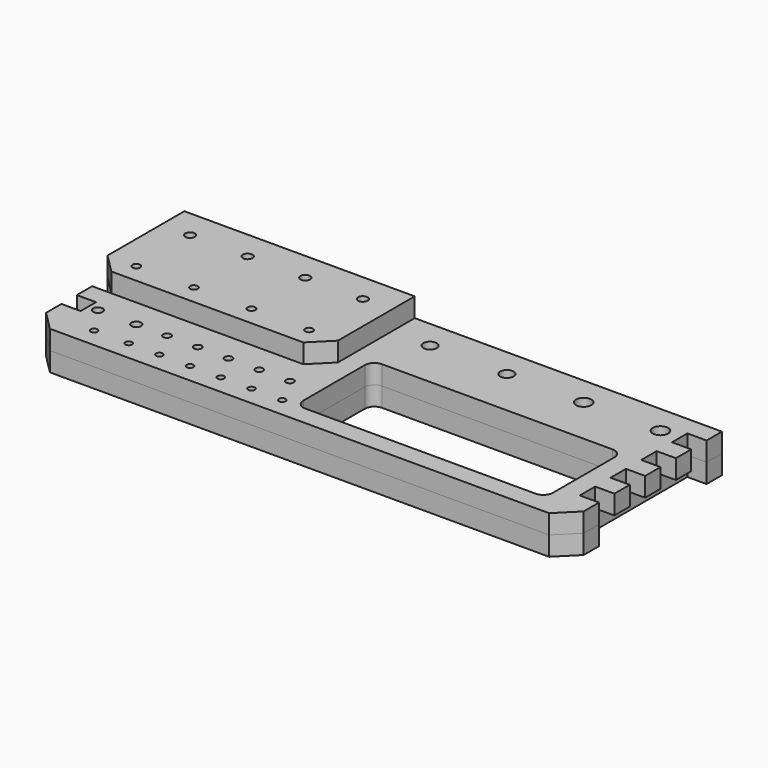
from build123d import *

# Parameters (mm, degrees)
F0_W     = 130
F0_H     = 50
F1_DEPTH = 10
F2_R     = 5
F4_DEPTH = 10
F6_DEPTH = 10
F7_R     = 3.5
F7_R_2   = 4
F7_R_3   = 2.5
F7_R_4   = 2
F7_R_5   = 1.75
F8_DEPTH = 25


with BuildPart() as f1:
    # F0 (on Top) → F1 (new body)
    with BuildSketch(Plane.XY):
        Polygon((140, 40), (140, 50), (-140, 50), (-140, 40), (-130, 40), (-130, 30), (-140, 30), (-140, 20), (-130, 20), (-130, 10), (-140, 10), (-140, 0), (-130, 0), (-130, -10), (-140, -10), (-140, -20), (-130, -20), (-130, -30), (-140, -30), (-140, -40), (-130, -50), (130, -50), (140, -40), (140, -30), (130, -30), (130, -20), (140, -20), (140, -10), (130, -10), (130, 0), (140, 0), (140, 10), (130, 10), (130, 20), (140, 20), (140, 30), (130, 30), (130, 40), align=None)
        with Locations((55, -15)):
            Rectangle(F0_W, F0_H, mode=Mode.SUBTRACT)
    extrude(amount=F1_DEPTH)

    # F2
    f2_edges = [f1.edges().sort_by_distance(p)[0] for p in [
        (-10, 10, 5),
        (120, 10, 5),
        (-10, -40, 5),
        (120, -40, 5),
    ]]
    fillet(f2_edges, radius=F2_R)


with BuildPart() as f4:
    # F3 (on face) → F4 (new body)
    with BuildSketch(Plane.XY.offset(10)):
        Polygon((-20, 50), (-140, 50), (-140, 0), (-130, -10), (-30, -10), (-20, 0), align=None)
    extrude(amount=F4_DEPTH)


with BuildPart() as f6:
    # F5 (on face) → F6 (new body)
    with BuildSketch(Plane(origin=(0, 0, 0), x_dir=(1, 0, 0), z_dir=(0, 0, -1))):
        Polygon((-130, 30), (-130, -40), (-140, -40), (-140, -50), (-130, -50), (130, -50), (140, -50), (140, -40), (130, -40), (130, 30), (140, 30), (140, 40), (130, 50), (-130, 50), (-140, 40), (-140, 30), align=None)
        with BuildLine():
            Line((-5, 40), (115, 40))
            ThreePointArc((115, 40), (118.535534, 38.535534), (120, 35))
            Line((120, 35), (120, -5))
            ThreePointArc((120, -5), (118.535534, -8.535534), (115, -10))
            Line((115, -10), (-5, -10))
            ThreePointArc((-5, -10), (-8.535534, -8.535534), (-10, -5))
            Line((-10, -5), (-10, 35))
            ThreePointArc((-10, 35), (-8.535534, 38.535534), (-5, 40))
        make_face(mode=Mode.SUBTRACT)
    extrude(amount=F6_DEPTH)


with BuildPart() as f8_tool:
    # F7 (on face) → F8 (new body, symmetric)
    with BuildSketch(Plane.XY.offset(10)):
        with Locations((0, 35)):
            Circle(F7_R)
        with Locations((40, 35)):
            Circle(F7_R)
        with Locations((80, 35)):
            Circle(F7_R_2)
        with Locations((120, 35)):
            Circle(F7_R_2)
        with Locations((-35, 35)):
            Circle(F7_R_3)
        with Locations((-65, 35)):
            Circle(F7_R_3)
        with Locations((-95, 35)):
            Circle(F7_R_3)
        with Locations((-125, 35)):
            Circle(F7_R_3)
        with Locations((-35, 0)):
            Circle(F7_R_4)
        with Locations((-65, 0)):
            Circle(F7_R_4)
        with Locations((-95, 0)):
            Circle(F7_R_4)
        with Locations((-125, 0)):
            Circle(F7_R_4)
        with Locations((-125, -25)):
            Circle(F7_R_3)
        with Locations((-105, -25)):
            Circle(F7_R_3)
        with Locations((-89, -25)):
            Circle(F7_R_4)
        with Locations((-73, -25)):
            Circle(F7_R_4)
        with Locations((-57, -25)):
            Circle(F7_R_4)
        with Locations((-41, -25)):
            Circle(F7_R_4)
        with Locations((-25, -25)):
            Circle(F7_R_4)
        with Locations((-115, -40)):
            Circle(F7_R_5)
        with Locations((-97, -40)):
            Circle(F7_R_5)
        with Locations((-81, -40)):
            Circle(F7_R_5)
        with Locations((-65, -40)):
            Circle(F7_R_5)
        with Locations((-49, -40)):
            Circle(F7_R_5)
        with Locations((-33, -40)):
            Circle(F7_R_5)
        with Locations((-17, -40)):
            Circle(F7_R_5)
    extrude(amount=F8_DEPTH, both=True)


with BuildPart() as f1_1:
    add(f1.part)

    # F8: cut by f8_tool
    add(f8_tool.part, mode=Mode.SUBTRACT)


with BuildPart() as f4_1:
    add(f4.part)

    # F8: cut by f8_tool
    add(f8_tool.part, mode=Mode.SUBTRACT)


with BuildPart() as f6_1:
    add(f6.part)

    # F8: cut by f8_tool
    add(f8_tool.part, mode=Mode.SUBTRACT)


solid = Compound([f1_1.part, f4_1.part, f6_1.part])
